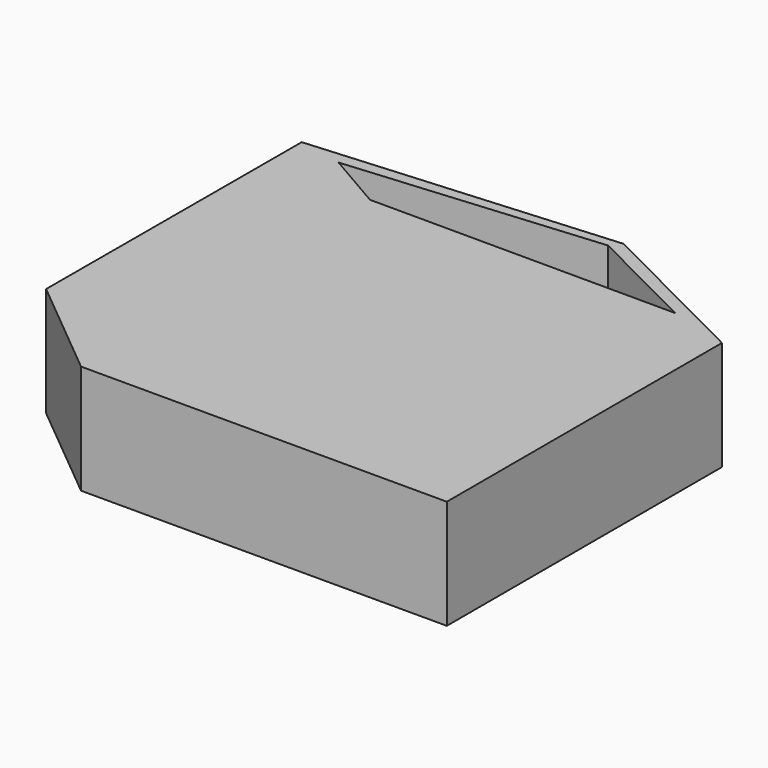
from build123d import *

# Parameters (mm, degrees)
F1_DEPTH = 25.4


with BuildPart() as f1:
    # F0 (on Top) → F1 (new body)
    with BuildSketch(Plane.XY):
        Polygon((-4.628678, 56.017287), (-46.759091, 56.110911), (-46.759091, -23.993554), (38.257439, -23.993554), (38.257439, 55.921983), align=None)
        Polygon((-70.588064, 69.903373), (-46.759091, 56.110911), (-4.628678, 56.017287), (38.257439, 55.921983), (0, 75.192399), align=None)
        Polygon((-46.759091, 59.95094), (-60.361739, 67.824297), (-1.792516, 72.924256), (24.276726, 59.79308), align=None, mode=Mode.SUBTRACT)
        Polygon((-46.759091, -23.993554), (-46.759091, 56.110911), (-70.588064, 69.903373), (-70.752643, -4.156364), align=None)
    extrude(amount=F1_DEPTH)


solid = f1.part
